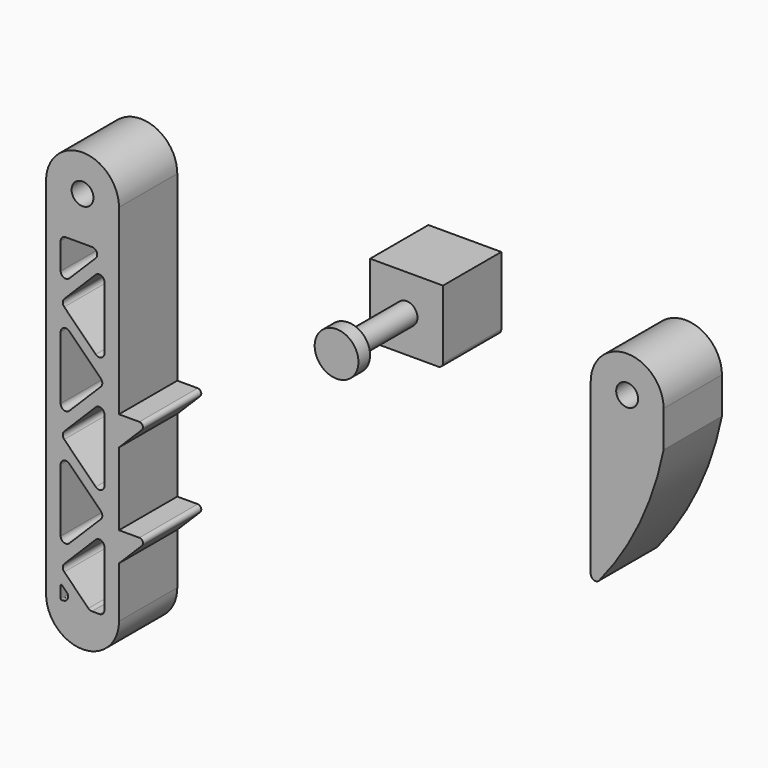
from build123d import *

# Parameters (mm, degrees)
F0_R     = 1.5
F1_DEPTH = 10
F2_DEPTH = 10
F3_DEPTH = 20
F4_R     = 3
F4_R_2   = 1.5
F5_DEPTH = 2


with BuildPart() as f1:
    # F0 (on Front) → F1 (new body)
    with BuildSketch(Plane.XZ):
        with BuildLine():
            ThreePointArc((-49.3618067241, 43), (-54.3618067241, 48), (-59.3618067241, 43))
            Line((-59.3618067241, 43), (-59.3618067241, -7))
            ThreePointArc((-59.3618067241, -7), (-54.3618067241, -12), (-49.3618067241, -7))
            Line((-49.3618067241, -7), (-49.3618067241, 0))
            Line((-49.3618067241, 0), (-49.3618067241, 4))
            Line((-49.3618067241, 4), (-49.3618067241, 14))
            Line((-49.3618067241, 14), (-49.3618067241, 18))
            Line((-49.3618067241, 18), (-49.3618067241, 43))
        make_face()
        with BuildLine():
            ThreePointArc((-57.2580112192, -6.9893327339), (-57.3314228931, -6.958748362), (-57.3618067241, -6.8852534609))
            Line((-57.3618067241, -6.8852534609), (-57.3618067241, -5.2403198815))
            ThreePointArc((-57.3618067241, -5.2403198815), (-57.2975566251, -5.1441628131), (-57.1841316293, -5.1667244475))
            Line((-57.1841316293, -5.1667244475), (-56.5479916643, -5.8028644125))
            ThreePointArc((-56.5479916643, -5.8028644125), (-56.3976194008, -6.5615427862), (-57.0415872264, -6.989923612))
            Line((-57.0415872264, -6.989923612), (-57.2580112192, -6.9893327339))
        make_face(mode=Mode.SUBTRACT)
        with BuildLine():
            Line((-51.3618067241, 1.332191763), (-51.3618067241, -6.3046353022))
            ThreePointArc((-51.3618067241, -6.3046353022), (-51.5654743287, -6.7963323954), (-52.0571714219, -7))
            Line((-52.0571714219, -7), (-53.0628265882, -7))
            ThreePointArc((-53.0628265882, -7), (-53.3289311375, -6.9470685141), (-53.5545236814, -6.7963323954))
            Line((-53.5545236814, -6.7963323954), (-56.8701096309, -3.4807464459))
            ThreePointArc((-56.8701096309, -3.4807464459), (-57.0737772355, -2.9890493527), (-56.8701096309, -2.4973522595))
            Line((-56.8701096309, -2.4973522595), (-52.5488685151, 1.8238888563))
            ThreePointArc((-52.5488685151, 1.8238888563), (-51.7910668726, 1.974624975), (-51.3618067241, 1.332191763))
        make_face(mode=Mode.SUBTRACT)
        with BuildLine():
            Line((-56.1747449331, 9.8238888563), (-51.8535038173, 5.5026477405))
            ThreePointArc((-51.8535038173, 5.5026477405), (-51.6498362127, 5.0109506473), (-51.8535038173, 4.5192535541))
            Line((-51.8535038173, 4.5192535541), (-56.1747449331, 0.1980124383))
            ThreePointArc((-56.1747449331, 0.1980124383), (-56.9325465756, 0.0472763196), (-57.3618067241, 0.6897095315))
            Line((-57.3618067241, 0.6897095315), (-57.3618067241, 9.332191763))
            ThreePointArc((-57.3618067241, 9.332191763), (-56.9325465756, 9.974624975), (-56.1747449331, 9.8238888563))
        make_face(mode=Mode.SUBTRACT)
        with BuildLine():
            Line((-56.8701096309, 13.5026477405), (-52.5488685151, 17.8238888563))
            ThreePointArc((-52.5488685151, 17.8238888563), (-51.7910668726, 17.974624975), (-51.3618067241, 17.332191763))
            Line((-51.3618067241, 17.332191763), (-51.3618067241, 8.6897095315))
            ThreePointArc((-51.3618067241, 8.6897095315), (-51.7910668726, 8.0472763196), (-52.5488685151, 8.1980124383))
            Line((-52.5488685151, 8.1980124383), (-56.8701096309, 12.5192535541))
            ThreePointArc((-56.8701096309, 12.5192535541), (-57.0737772355, 13.0109506473), (-56.8701096309, 13.5026477405))
        make_face(mode=Mode.SUBTRACT)
        with BuildLine():
            ThreePointArc((-57.3618067241, 25.332191763), (-56.9325465756, 25.974624975), (-56.1747449331, 25.8238888563))
            Line((-56.1747449331, 25.8238888563), (-51.8535038173, 21.5026477405))
            ThreePointArc((-51.8535038173, 21.5026477405), (-51.6498362127, 21.0109506473), (-51.8535038173, 20.5192535541))
            Line((-51.8535038173, 20.5192535541), (-56.1747449331, 16.1980124383))
            ThreePointArc((-56.1747449331, 16.1980124383), (-56.9325465756, 16.0472763196), (-57.3618067241, 16.6897095315))
            Line((-57.3618067241, 16.6897095315), (-57.3618067241, 25.332191763))
        make_face(mode=Mode.SUBTRACT)
        with BuildLine():
            ThreePointArc((-56.8701096309, 28.5192535541), (-57.0737772355, 29.0109506473), (-56.8701096309, 29.5026477405))
            Line((-56.8701096309, 29.5026477405), (-52.5488685151, 33.8238888563))
            ThreePointArc((-52.5488685151, 33.8238888563), (-51.7910668726, 33.974624975), (-51.3618067241, 33.332191763))
            Line((-51.3618067241, 33.332191763), (-51.3618067241, 24.6897095315))
            ThreePointArc((-51.3618067241, 24.6897095315), (-51.7910668726, 24.0472763196), (-52.5488685151, 24.1980124383))
            Line((-52.5488685151, 24.1980124383), (-56.8701096309, 28.5192535541))
        make_face(mode=Mode.SUBTRACT)
        with BuildLine():
            ThreePointArc((-57.3618067241, 36.3155859495), (-57.1581391195, 36.8072830427), (-56.6664420263, 37.0109506473))
            Line((-56.6664420263, 37.0109506473), (-53.0405656084, 37.0109506473))
            ThreePointArc((-53.0405656084, 37.0109506473), (-52.3981323964, 36.5816904988), (-52.5488685151, 35.8238888563))
            Line((-52.5488685151, 35.8238888563), (-56.1747449331, 32.1980124383))
            ThreePointArc((-56.1747449331, 32.1980124383), (-56.9325465756, 32.0472763196), (-57.3618067241, 32.6897095315))
            Line((-57.3618067241, 32.6897095315), (-57.3618067241, 36.3155859495))
        make_face(mode=Mode.SUBTRACT)
        with Locations((-54.3618067241, 43)):
            Circle(F0_R, mode=Mode.SUBTRACT)
        with BuildLine():
            Line((-46.5689135053, 18), (-49.3618067241, 18))
            Line((-49.3618067241, 18), (-49.3618067241, 14))
            Line((-49.3618067241, 14), (-46.2153601147, 17.1464466094))
            ThreePointArc((-46.2153601147, 17.1464466094), (-46.106973739, 17.6913417162), (-46.5689135053, 18))
        make_face()
        with BuildLine():
            Line((-49.3618067241, 4), (-49.3618067241, 0))
            Line((-49.3618067241, 0), (-46.2153601147, 3.1464466094))
            ThreePointArc((-46.2153601147, 3.1464466094), (-46.106973739, 3.6913417162), (-46.5689135053, 4))
            Line((-46.5689135053, 4), (-49.3618067241, 4))
        make_face()
    extrude(amount=F1_DEPTH)


with BuildPart() as f2:
    # F0 (on Front) → F2 (new body)
    with BuildSketch(Plane.XZ):
        with BuildLine():
            Line((25.3549321741, 38), (25.3549321741, 43))
            ThreePointArc((25.3549321741, 43), (20.3549321741, 48), (15.3549321741, 43))
            Line((15.3549321741, 43), (15.3549321741, 38))
            Line((15.3549321741, 38), (15.3549321741, 19.7624126063))
            ThreePointArc((15.3549321741, 19.7624126063), (15.7872667899, 19.1482738745), (16.5112376477, 19.3481383261))
            ThreePointArc((16.5112376477, 19.3481383261), (22.0826940336, 28.1289872788), (25.3549321741, 38))
        make_face()
        with Locations((20.3549321741, 43)):
            Circle(F0_R, mode=Mode.SUBTRACT)
    extrude(amount=F2_DEPTH)


with BuildPart() as f2b:
    # F0 (on Front) → F2, piece 2 (new body)
    with BuildSketch(Plane.XZ):
        with BuildLine():
            Line((-4.9116824567, 48), (-14.9116824567, 48))
            Line((-14.9116824567, 48), (-14.9116824567, 38.6523646052))
            ThreePointArc((-14.9116824567, 38.6523646052), (-14.7206092877, 38.1910731691), (-14.2593178515, 38))
            Line((-14.2593178515, 38), (-5.5640470619, 38))
            ThreePointArc((-5.5640470619, 38), (-5.1027556258, 38.1910731691), (-4.9116824567, 38.6523646052))
            Line((-4.9116824567, 38.6523646052), (-4.9116824567, 48))
        make_face()
        with Locations((-9.9116824567, 43)):
            Circle(F0_R, mode=Mode.SUBTRACT)
    extrude(amount=F2_DEPTH)

    # F0 (on Front) → F3 (join)
    with BuildSketch(Plane.XZ):
        with Locations((-9.9116824567, 43)):
            Circle(F0_R)
    extrude(amount=F3_DEPTH)

    # F4 (on face) → F5 (join)
    with BuildSketch(Plane.XZ.offset(20)):
        with Locations((-9.9116824567, 43)):
            Circle(F4_R)
        with Locations((-9.9116824567, 43)):
            Circle(F4_R_2, mode=Mode.SUBTRACT)
        with Locations((-9.9116824567, 43)):
            Circle(F4_R_2)
    extrude(amount=F5_DEPTH)


solid = Compound([f1.part, f2.part, f2b.part])
